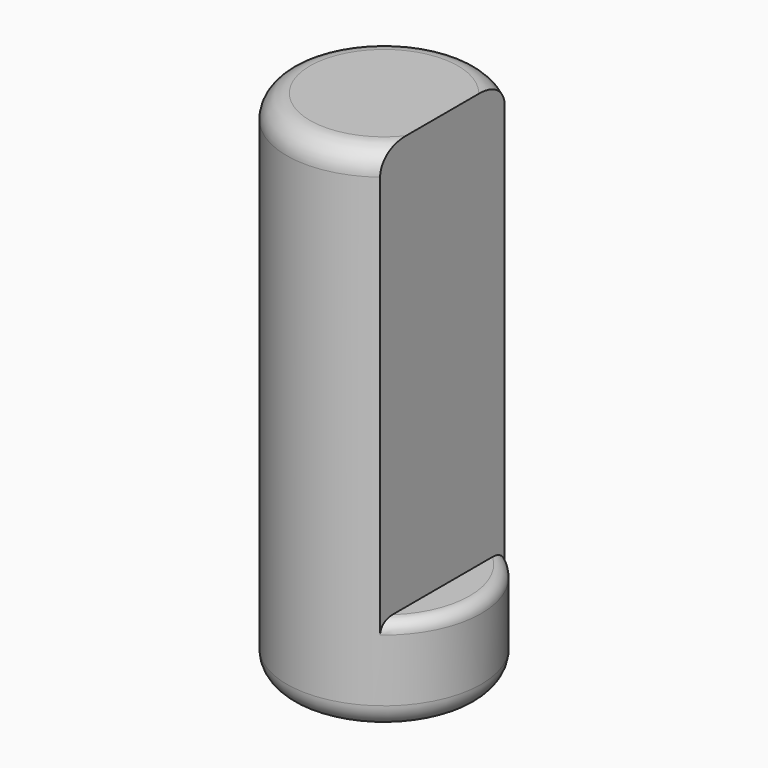
from build123d import *

# Parameters (mm, degrees)
F0_W     = 6.35
F0_H     = 33.401
F2_R     = 1.524
F3_W     = 5.08
F3_H     = 28.219457
F4_DEPTH = 12.7
F5_R     = 0.762


with BuildPart() as f1:
    # F0 (on Front) → F1 (revolve)
    with BuildSketch(Plane.XZ):
        with Locations((3.175, 16.7005)):
            Rectangle(F0_W, F0_H)
    revolve(axis=Axis((0, 0, 16.7005), (0, 0, 1)))

    # F2
    f2_edges = [f1.edges().sort_by_distance(p)[0] for p in [
        (-6.35, 0, 0),
        (-6.35, 0, 33.401),
        (6.35, 0, 16.7005),
    ]]
    fillet(f2_edges, radius=F2_R)

    # F3 (on Front) → F4 (cut, symmetric)
    with BuildSketch(Plane.XZ):
        with Locations((6.35, 20.459729)):
            Rectangle(F3_W, F3_H)
    extrude(amount=F4_DEPTH, both=True, mode=Mode.SUBTRACT)

    # F5
    f5_edges = [f1.edges().sort_by_distance(p)[0] for p in [
        (5.679613, 2.839806, 6.35),
        (5.679613, -2.839806, 6.35),
    ]]
    fillet(f5_edges, radius=F5_R)


solid = f1.part
